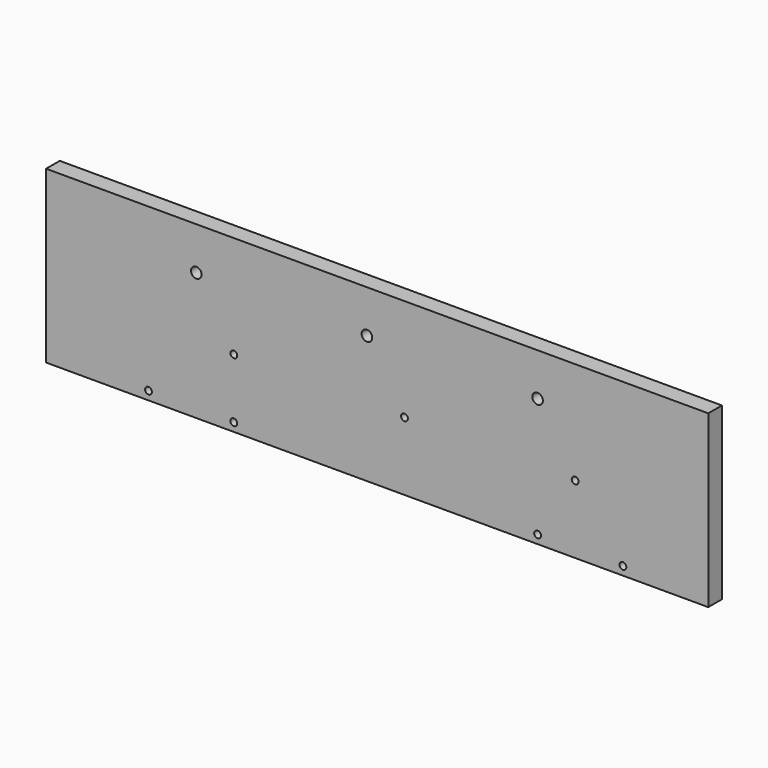
from build123d import *

# Parameters (mm, degrees)
F0_W     = 388
F0_H     = 100
F0_R     = 2
F1_DEPTH = 10
F2_R     = 3.1
F3_DEPTH = 10
F4_R     = 2
F5_DEPTH = 10


with BuildPart() as f1:
    # F0 (on Front) → F1 (new body)
    with BuildSketch(Plane.XZ):
        Rectangle(F0_W, F0_H)
        with Locations((-134, -45)):
            Circle(F0_R, mode=Mode.SUBTRACT)
        with Locations((-84, -45)):
            Circle(F0_R, mode=Mode.SUBTRACT)
        with Locations((-84, -10)):
            Circle(F0_R, mode=Mode.SUBTRACT)
        with Locations((94, -45)):
            Circle(F0_R, mode=Mode.SUBTRACT)
        with Locations((144, -45)):
            Circle(F0_R, mode=Mode.SUBTRACT)
        with Locations((16, -10)):
            Circle(F0_R, mode=Mode.SUBTRACT)
        with Locations((116, -10)):
            Circle(F0_R, mode=Mode.SUBTRACT)
    extrude(amount=F1_DEPTH)

    # F2 (on face) → F3 (cut)
    with BuildSketch(Plane.XZ.offset(10)):
        with Locations((-6, 25)):
            Circle(F2_R)
        with Locations((94, 25)):
            Circle(F2_R)
        with Locations((-106, 25)):
            Circle(F2_R)
    extrude(amount=-F3_DEPTH, mode=Mode.SUBTRACT)

    # F4 (on face) → F5 (cut)
    with BuildSketch(Plane(origin=(-194, 0, 0), x_dir=(0, -1, 0), z_dir=(-1, 0, 0))):
        with Locations((5, -30)):
            Circle(F4_R)
        with Locations((5, 30)):
            Circle(F4_R)
    extrude(amount=-F5_DEPTH, mode=Mode.SUBTRACT)


solid = f1.part
